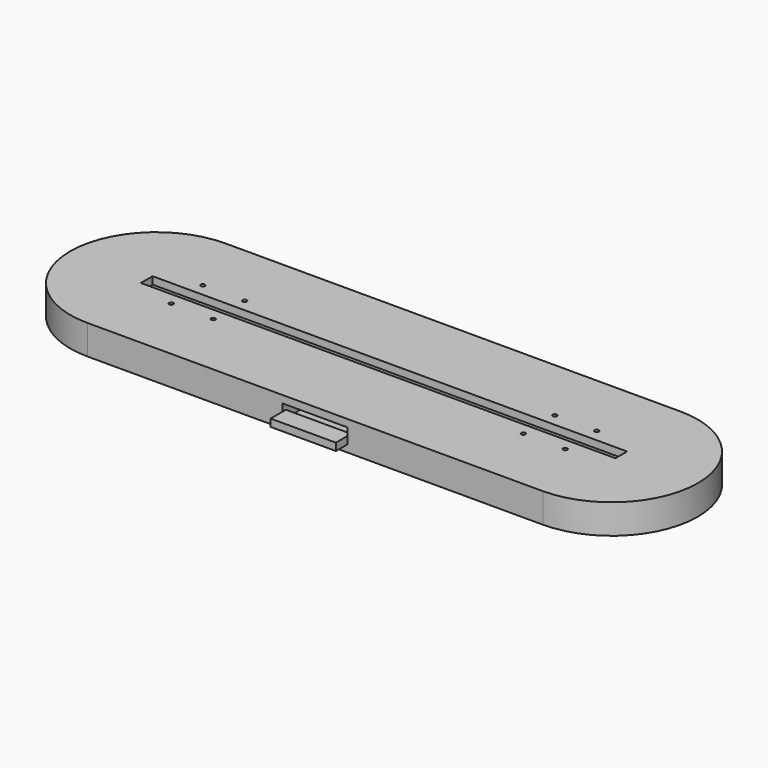
from build123d import *

# Parameters (mm, degrees)
PAD_DEPTH       = 9
POCKET_DEPTH    = 6
SKETCH002_W     = 26.5
SKETCH002_H     = 35
POCKET001_DEPTH = 6
SKETCH003_W     = 192.75
SKETCH003_H     = 5.95
PAD001_DEPTH    = 3
SKETCH004_R     = 0.85
POCKET002_DEPTH = 541.411993
SKETCH005_W     = 26.5
SKETCH005_H     = 7.75
PAD002_DEPTH    = 3


with BuildPart() as part:
    # Sketch → Pad (new body)
    with BuildSketch(Plane.XY):
        with BuildLine():
            ThreePointArc((-92.5, 35), (-127.5, 0), (-92.5, -35))
            Line((-92.5, -35), (92.5, -35))
            ThreePointArc((92.5, -35), (127.5, 0), (92.5, 35))
            Line((-92.5, 35), (92.5, 35))
        make_face()
    extrude(amount=PAD_DEPTH)

    # Sketch001 (on Face6 of Pad) → Pocket (cut)
    with BuildSketch(Plane.XY.offset(9)):
        with BuildLine():
            ThreePointArc((-97.5, 6), (-103.5, 0), (-97.5, -6))
            Line((-97.5, -6), (97.5, -6))
            ThreePointArc((97.5, -6), (103.5, 0), (97.5, 6))
            Line((-97.5, 6), (97.5, 6))
        make_face()
    extrude(amount=-POCKET_DEPTH, mode=Mode.SUBTRACT)

    # Sketch002 (on Face5 of Pocket) → Pocket001 (cut)
    with BuildSketch(Plane.XY.offset(9)):
        with Locations((0, -17.5)):
            Rectangle(SKETCH002_W, SKETCH002_H)
    extrude(amount=-POCKET001_DEPTH, mode=Mode.SUBTRACT)

    # Sketch003 (on Face5 of Pocket001) → Pad001 (join)
    with BuildSketch(Plane.XY.offset(9)):
        with BuildLine():
            ThreePointArc((-92.5, 35), (-127.5, 0), (-92.5, -35))
            Line((-92.5, -35), (92.5, -35))
            ThreePointArc((92.5, -35), (127.5, 0), (92.5, 35))
            Line((-92.5, 35), (92.5, 35))
        make_face()
        Rectangle(SKETCH003_W, SKETCH003_H, mode=Mode.SUBTRACT)
    extrude(amount=PAD001_DEPTH)

    # Sketch004 (on Face12 of Pad001) → Pocket002 (cut, through all)
    with BuildSketch(Plane.XY.offset(12)):
        with Locations((-80, -8)):
            Circle(SKETCH004_R)
        with Locations((-63, -8)):
            Circle(SKETCH004_R)
        with Locations((-63, 8)):
            Circle(SKETCH004_R)
        with Locations((-80, 8)):
            Circle(SKETCH004_R)
    pocket002 = extrude(amount=-POCKET002_DEPTH, mode=Mode.SUBTRACT)

    # Sketch005 (on Face10 of Pocket002) → Pad002 (join)
    with BuildSketch(Plane.XY.offset(3)):
        with Locations((0, -37.125)):
            Rectangle(SKETCH005_W, SKETCH005_H)
    extrude(amount=PAD002_DEPTH)

    # Mirrored: Pocket002 across Sketch004 V_Axis
    add(pocket002.mirror(Plane(origin=(0, 0, 12), x_dir=(0, 0, 1), z_dir=(1, 0, 0))), mode=Mode.SUBTRACT)


solid = part.part
